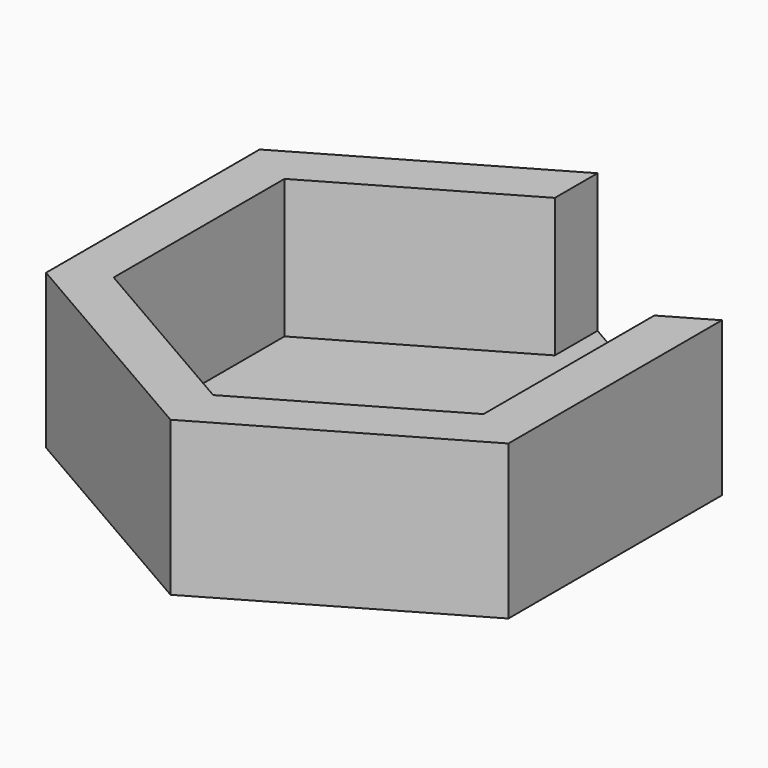
from build123d import *

# Parameters (mm, degrees)
F1_DEPTH = 5
F2_DEPTH = 50


with BuildPart() as f1:
    # F0 (on Top) → F1 (new body)
    with BuildSketch(Plane.XY):
        Polygon((60, 34.641016), (75, 43.30127), (0, 86.60254), (0, 69.282032), align=None)
        Polygon((75, -43.30127), (75, 43.30127), (60, 34.641016), (60, -34.641016), (0, -69.282032), (-60, -34.641016), (-60, 34.641016), (0, 69.282032), (0, 86.60254), (-75, 43.30127), (-75, -43.30127), (0, -86.60254), align=None)
        Polygon((60, -34.641016), (60, 34.641016), (0, 69.282032), (-60, 34.641016), (-60, -34.641016), (0, -69.282032), align=None)
    extrude(amount=F1_DEPTH)

    # F0 (on Top) → F2 (join)
    with BuildSketch(Plane.XY):
        Polygon((75, -43.30127), (75, 43.30127), (60, 34.641016), (60, -34.641016), (0, -69.282032), (-60, -34.641016), (-60, 34.641016), (0, 69.282032), (0, 86.60254), (-75, 43.30127), (-75, -43.30127), (0, -86.60254), align=None)
    extrude(amount=F2_DEPTH)


solid = f1.part
